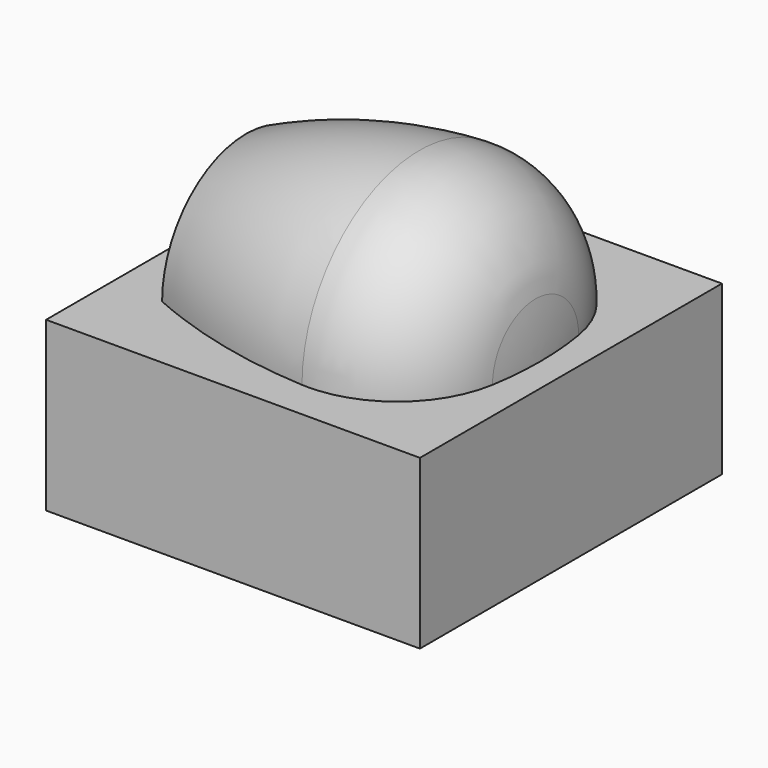
from build123d import *

# Parameters (mm, degrees)
F2_W     = 113.065446
F2_H     = 114.160227
F3_DEPTH = 50.8


with BuildPart() as f1:
    # F0 (on Top) → F1 (revolve)
    with BuildSketch(Plane.XY):
        with BuildLine():
            Line((0, -31.75), (88.9, -31.75))
            ThreePointArc((88.9, -31.75), (88.56236, -23.579488), (87.551741, -15.464692))
            ThreePointArc((87.551741, -15.464692), (75.365793, 5.308771), (52.427336, 12.647797))
            ThreePointArc((52.427336, 12.647797), (25.639597, 8.703524), (0, 0))
            Line((0, 0), (0, -31.75))
        make_face()
    revolve(axis=Axis((44.45, -31.75, 0), (-1, 0, 0)))

    # F2 (on Top) → F3 (join)
    with BuildSketch(Plane.XY):
        with Locations((40.961946, -30.810474)):
            Rectangle(F2_W, F2_H)
    extrude(amount=-F3_DEPTH)


solid = f1.part
